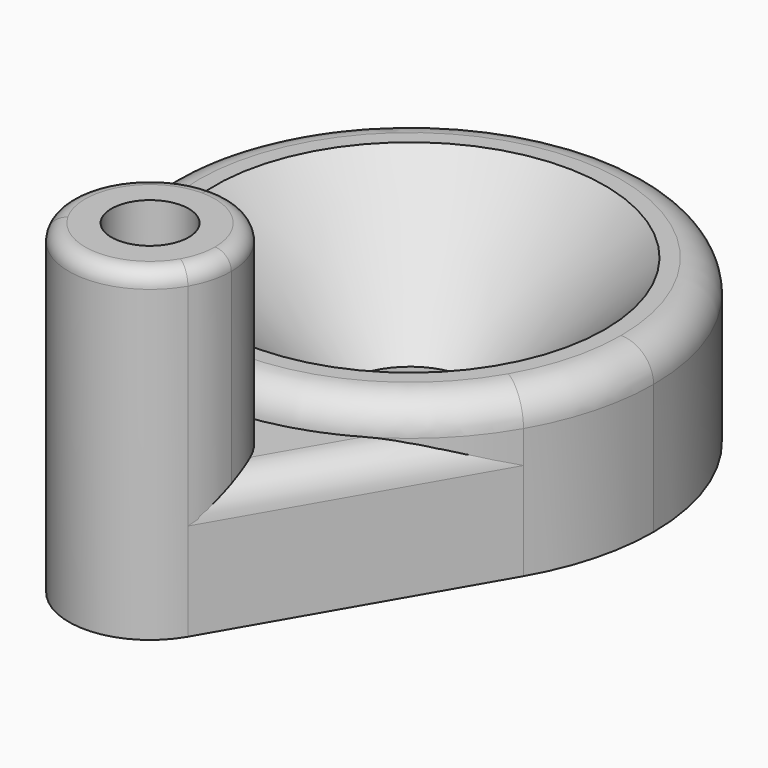
from build123d import *

# Parameters (mm, degrees)
F0_R     = 2
F1_DEPTH = 5
F0_R_2   = 1.190625
F2_DEPTH = 10
F3_DEPTH = 4
F4_R     = 1
F4_2_R   = 1
F5_SIZE  = 4
F6_R     = 0.5


with BuildPart() as f1:
    # F0 (on Top) → F1 (new body)
    with BuildSketch(Plane.XY):
        with BuildLine():
            ThreePointArc((-6.495191, 6.25), (-3.75, 3.504809), (0, 2.5))
            ThreePointArc((0, 2.5), (3.75, 3.504809), (6.495191, 6.25))
            ThreePointArc((6.495191, 6.25), (7.244444, 8.058857), (7.5, 10))
            ThreePointArc((7.5, 10), (-1.941143, 17.244444), (-6.495191, 6.25))
        make_face()
        with Locations((0, 10)):
            Circle(F0_R, mode=Mode.SUBTRACT)
    extrude(amount=F1_DEPTH)

    # F4
    f4_edges = [f1.edges().sort_by_distance(p)[0] for p in [
        (6.495191, 13.75, 5),
    ]]
    fillet(f4_edges, radius=F4_R)

    # F5
    f5_edges = [f1.edges().sort_by_distance(p)[0] for p in [
        (-2, 10, 5),
    ]]
    chamfer(f5_edges, length=F5_SIZE)


with BuildPart() as f2:
    # F0 (on Top) → F2 (new body)
    with BuildSketch(Plane.XY):
        with BuildLine():
            ThreePointArc((0, 2.5), (-2.165064, 1.25), (-2.165064, -1.25))
            ThreePointArc((-2.165064, -1.25), (0, -2.5), (2.165064, -1.25))
            ThreePointArc((2.165064, -1.25), (2.414815, -0.647048), (2.5, 0))
            ThreePointArc((2.5, 0), (1.767767, 1.767767), (0, 2.5))
        make_face()
        Circle(F0_R_2, mode=Mode.SUBTRACT)
    extrude(amount=F2_DEPTH)

    # F6
    f6_edges = [f2.edges().sort_by_distance(p)[0] for p in [
        (0, -2.5, 10),
    ]]
    fillet(f6_edges, radius=F6_R)


with BuildPart() as f3:
    # F0 (on Top) → F3 (new body)
    with BuildSketch(Plane.XY):
        with BuildLine():
            ThreePointArc((2.5, 0), (2.414815, -0.647048), (2.165064, -1.25))
            Line((2.165064, -1.25), (6.495191, 6.25))
            ThreePointArc((6.495191, 6.25), (3.75, 3.504809), (0, 2.5))
            ThreePointArc((0, 2.5), (1.767767, 1.767767), (2.5, 0))
        make_face()
        with BuildLine():
            Line((-6.495191, 6.25), (-2.165064, -1.25))
            ThreePointArc((-2.165064, -1.25), (-2.165064, 1.25), (0, 2.5))
            ThreePointArc((0, 2.5), (-3.75, 3.504809), (-6.495191, 6.25))
        make_face()
    extrude(amount=F3_DEPTH)

    # F4#2
    f4_2_edges = [f3.edges().sort_by_distance(p)[0] for p in [
        (4.330127, 2.5, 4),
        (-4.330127, 2.5, 4),
    ]]
    fillet(f4_2_edges, radius=F4_2_R)


solid = Compound([f1.part, f2.part, f3.part])
